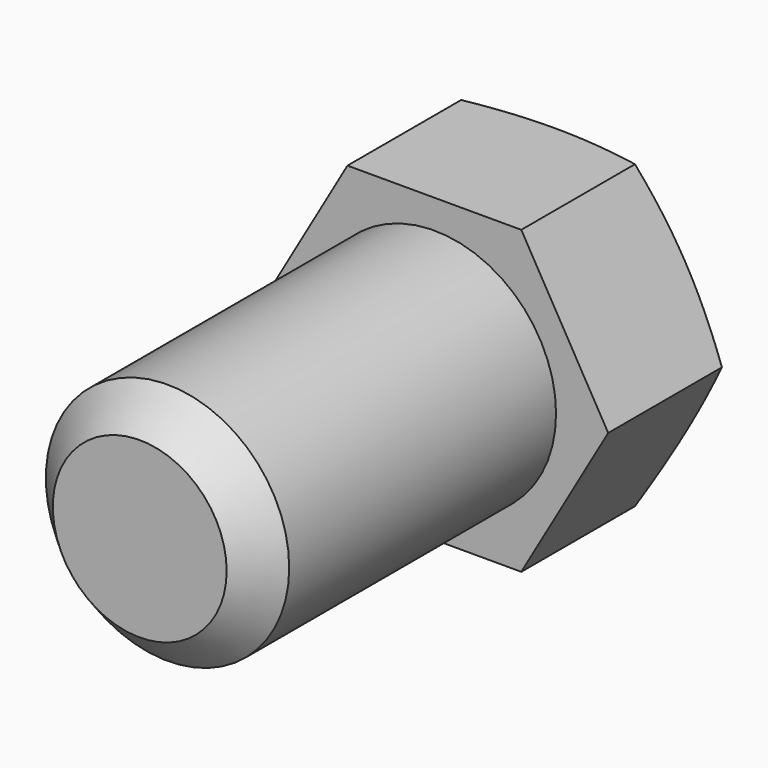
from build123d import *

# Parameters (mm, degrees)
F1_DEPTH = 25.4
F2_R     = 17.5
F3_DEPTH = 52.966522
F6_SIZE  = 5


with BuildPart() as f1:
    # F0 (on Front) → F1 (new body)
    with BuildSketch(Plane.XZ):
        Polygon((12.5, -21.650635), (25, 0), (12.5, 21.650635), (-12.5, 21.650635), (-25, 0), (-12.5, -21.650635), align=None)
    extrude(amount=-F1_DEPTH)

    # F4 (on Top) → F5 (revolve, cut)
    with BuildSketch(Plane.XY):
        Polygon((-35, 35), (-35, 16.801488), (-10, 25.900744), (-10, 35), align=None)
    revolve(axis=Axis((0, 0, 0), (0, 1, 0)), mode=Mode.SUBTRACT)


with BuildPart() as f3:
    # F2 (on Front) → F3 (new body)
    with BuildSketch(Plane.XZ):
        Circle(F2_R)
    extrude(amount=F3_DEPTH)

    # F6
    f6_edges = [f3.edges().sort_by_distance(p)[0] for p in [
        (-17.5, -52.966522, 0),
    ]]
    chamfer(f6_edges, length=F6_SIZE)


solid = Compound([f1.part, f3.part])
